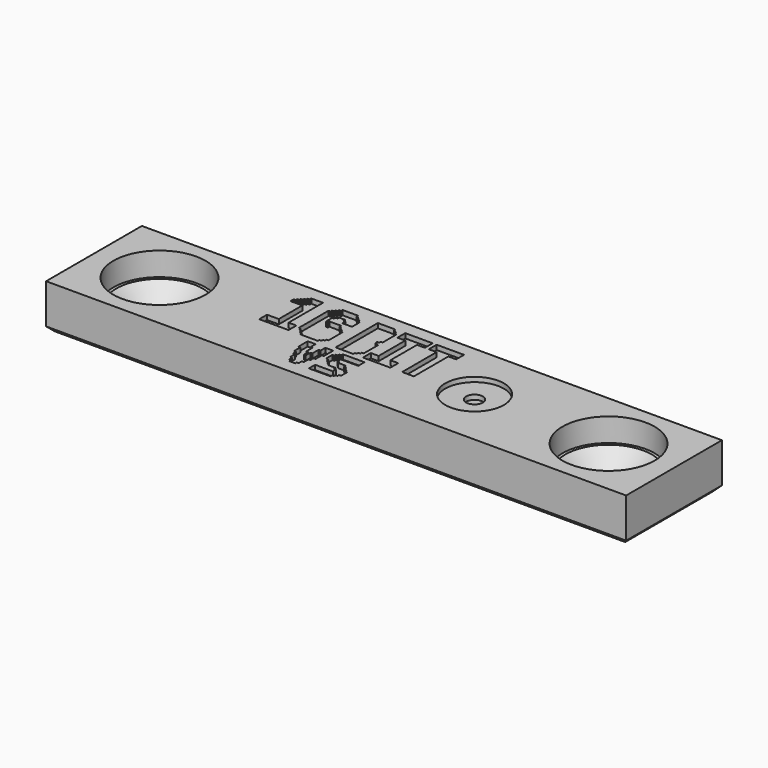
from build123d import *

# Parameters (mm, degrees)
SKETCH040_W        = 62
SKETCH040_H        = 12.8
PAD015_DEPTH       = 4.75
SKETCH041_R        = 4.925
SKETCH041_R_2      = 2.6
POCKET040_DEPTH    = 2.5
POCKET040_FACE13_R = 2.6
POCKET041_DEPTH    = 5
POCKET041_FACE13_R = 2.6
POCKET042_DEPTH    = 5
CHAMFER010_SIZE    = 2
CHAMFER011_SIZE    = 0.5
SKETCH042_R        = 3.136
SKETCH042_R_2      = 0.893
POCKET043_DEPTH    = 2.5
POCKET043_FACE22_R = 0.893
POCKET044_DEPTH    = 1
POCKET045_DEPTH    = 2.5


with BuildPart() as part:
    # Sketch040 → Pad015 (new body)
    with BuildSketch(Plane.XY):
        with Locations((131, -31.4)):
            Rectangle(SKETCH040_W, SKETCH040_H)
    extrude(amount=PAD015_DEPTH)

    # Sketch041 (on Face6 of Pad015) → Pocket040 (cut)
    with BuildSketch(Plane.XY.offset(4.75)):
        with Locations((107, -31.4)):
            Circle(SKETCH041_R)
        with Locations((107, -31.4)):
            Circle(SKETCH041_R_2, mode=Mode.SUBTRACT)
        with Locations((155, -31.4)):
            Circle(SKETCH041_R)
        with Locations((155, -31.4)):
            Circle(SKETCH041_R_2, mode=Mode.SUBTRACT)
    extrude(amount=-POCKET040_DEPTH, mode=Mode.SUBTRACT)

    # Pocket040 Face13 → Pocket041 (cut)
    with BuildSketch(Plane(origin=(107, -31.4, 4.75), x_dir=(0, 1, 0), z_dir=(0, 0, 1))):
        Circle(POCKET040_FACE13_R)
    extrude(amount=-POCKET041_DEPTH, mode=Mode.SUBTRACT)

    # Pocket041 Face13 → Pocket042 (cut)
    with BuildSketch(Plane(origin=(155, -31.4, 4.75), x_dir=(0, 1, 0), z_dir=(0, 0, 1))):
        Circle(POCKET041_FACE13_R)
    extrude(amount=-POCKET042_DEPTH, mode=Mode.SUBTRACT)

    # Chamfer010
    chamfer010_edges = [part.edges().sort_by_distance(p)[0] for p in [
        (104.4, -31.4, 2.25),
        (152.4, -31.4, 2.25),
    ]]
    chamfer(chamfer010_edges, length=CHAMFER010_SIZE)

    # Chamfer011
    chamfer011_edges = [part.edges().sort_by_distance(p)[0] for p in [
        (100, -31.4, 0),
        (131, -37.8, 0),
        (131, -25, 0),
        (162, -31.4, 0),
    ]]
    chamfer(chamfer011_edges, length=CHAMFER011_SIZE)

    # Sketch042 → Pocket043 (cut)
    with BuildSketch(Plane(origin=(140.68, -31.4, 6.75), x_dir=(1, 0, 0), z_dir=(0, 0, 1))):
        Circle(SKETCH042_R)
        Circle(SKETCH042_R_2, mode=Mode.SUBTRACT)
    extrude(amount=-POCKET043_DEPTH, mode=Mode.SUBTRACT)

    # Pocket043 Face22 → Pocket044 (cut)
    with BuildSketch(Plane(origin=(140.68, -31.4, 4.75), x_dir=(0, 1, 0), z_dir=(0, 0, 1))):
        Circle(POCKET043_FACE22_R)
    extrude(amount=-POCKET044_DEPTH, mode=Mode.SUBTRACT)

    # Sketch043 → Pocket045 (cut)
    with BuildSketch(Plane(origin=(118.18, -26.4, 6.75), x_dir=(1, 0, 0), z_dir=(0, 0, 1))):
        with BuildLine():
            add(Edge.make_bspline(
                [(1.569756, -5.651122), (0, -5.651122)],
                knots=[0, 0, 1.569756, 1.569756], degree=1))
            add(Edge.make_bspline(
                [(0, -5.651122), (0, -5.12787)],
                knots=[0, 0, 0.523252, 0.523252], degree=1))
            add(Edge.make_bspline(
                [(0, -5.12787), (0, -4.604618)],
                knots=[0, 0, 0.523252, 0.523252], degree=1))
            add(Edge.make_bspline(
                [(0, -4.604618), (0.627902, -4.604618)],
                knots=[0, 0, 0.627902, 0.627902], degree=1))
            add(Edge.make_bspline(
                [(0.627902, -4.604618), (1.255805, -4.604618)],
                knots=[0, 0, 0.627902, 0.627902], degree=1))
            add(Edge.make_bspline(
                [(1.255805, -4.604618), (1.255805, -3.034862)],
                knots=[0, 0, 1.569756, 1.569756], degree=1))
            add(Edge.make_bspline(
                [(1.255805, -3.034862), (1.255805, -1.465106)],
                knots=[0, 0, 1.569756, 1.569756], degree=1))
            add(Edge.make_bspline(
                [(1.255805, -1.465106), (0.627902, -1.465106)],
                knots=[0, 0, 0.627902, 0.627902], degree=1))
            add(Edge.make_bspline(
                [(0.627902, -1.465106), (0, -1.465106)],
                knots=[0, 0, 0.627902, 0.627902], degree=1))
            add(Edge.make_bspline(
                [(0, -1.465106), (0, -1.255805)],
                knots=[0, 0, 0.209301, 0.209301], degree=1))
            add(Edge.make_bspline(
                [(0, -1.255805), (0, -1.046504)],
                knots=[0, 0, 0.209301, 0.209301], degree=1))
            add(Edge.make_bspline(
                [(0, -1.046504), (0.10465, -1.046504)],
                knots=[0, 0, 0.10465, 0.10465], degree=1))
            add(Edge.make_bspline(
                [(0.10465, -1.046504), (0.209301, -1.046504)],
                knots=[0, 0, 0.10465, 0.10465], degree=1))
            add(Edge.make_bspline(
                [(0.209301, -1.046504), (0.209301, -0.941854)],
                knots=[0, 0, 0.10465, 0.10465], degree=1))
            add(Edge.make_bspline(
                [(0.209301, -0.941854), (0.209301, -0.837203)],
                knots=[0, 0, 0.10465, 0.10465], degree=1))
            add(Edge.make_bspline(
                [(0.209301, -0.837203), (0.313951, -0.837203)],
                knots=[0, 0, 0.10465, 0.10465], degree=1))
            add(Edge.make_bspline(
                [(0.313951, -0.837203), (0.418602, -0.837203)],
                knots=[0, 0, 0.10465, 0.10465], degree=1))
            add(Edge.make_bspline(
                [(0.418602, -0.837203), (0.418602, -0.732553)],
                knots=[0, 0, 0.10465, 0.10465], degree=1))
            add(Edge.make_bspline(
                [(0.418602, -0.732553), (0.418602, -0.627902)],
                knots=[0, 0, 0.10465, 0.10465], degree=1))
            add(Edge.make_bspline(
                [(0.418602, -0.627902), (0.523252, -0.627902)],
                knots=[0, 0, 0.10465, 0.10465], degree=1))
            add(Edge.make_bspline(
                [(0.523252, -0.627902), (0.627902, -0.627902)],
                knots=[0, 0, 0.10465, 0.10465], degree=1))
            add(Edge.make_bspline(
                [(0.627902, -0.627902), (0.627902, -0.523252)],
                knots=[0, 0, 0.10465, 0.10465], degree=1))
            add(Edge.make_bspline(
                [(0.627902, -0.523252), (0.627902, -0.418602)],
                knots=[0, 0, 0.10465, 0.10465], degree=1))
            add(Edge.make_bspline(
                [(0.627902, -0.418602), (0.732553, -0.418602)],
                knots=[0, 0, 0.10465, 0.10465], degree=1))
            add(Edge.make_bspline(
                [(0.732553, -0.418602), (0.837203, -0.418602)],
                knots=[0, 0, 0.10465, 0.10465], degree=1))
            add(Edge.make_bspline(
                [(0.837203, -0.418602), (0.837203, -0.313951)],
                knots=[0, 0, 0.10465, 0.10465], degree=1))
            add(Edge.make_bspline(
                [(0.837203, -0.313951), (0.837203, -0.209301)],
                knots=[0, 0, 0.10465, 0.10465], degree=1))
            add(Edge.make_bspline(
                [(0.837203, -0.209301), (0.941854, -0.209301)],
                knots=[0, 0, 0.10465, 0.10465], degree=1))
            add(Edge.make_bspline(
                [(0.941854, -0.209301), (1.046504, -0.209301)],
                knots=[0, 0, 0.10465, 0.10465], degree=1))
            add(Edge.make_bspline(
                [(1.046504, -0.209301), (1.046504, -0.10465)],
                knots=[0, 0, 0.10465, 0.10465], degree=1))
            add(Edge.make_bspline(
                [(1.046504, -0.10465), (1.046504, 0)],
                knots=[0, 0, 0.10465, 0.10465], degree=1))
            add(Edge.make_bspline(
                [(1.046504, 0), (1.674406, 0)],
                knots=[0, 0, 0.627902, 0.627902], degree=1))
            add(Edge.make_bspline(
                [(1.674406, 0), (2.302309, 0)],
                knots=[0, 0, 0.627902, 0.627902], degree=1))
            add(Edge.make_bspline(
                [(2.302309, 0), (2.302309, -2.302309)],
                knots=[0, 0, 2.302309, 2.302309], degree=1))
            add(Edge.make_bspline(
                [(2.302309, -2.302309), (2.302309, -4.604618)],
                knots=[0, 0, 2.302309, 2.302309], degree=1))
            add(Edge.make_bspline(
                [(2.302309, -4.604618), (2.720911, -4.604618)],
                knots=[0, 0, 0.418602, 0.418602], degree=1))
            add(Edge.make_bspline(
                [(2.720911, -4.604618), (3.139512, -4.604618)],
                knots=[0, 0, 0.418602, 0.418602], degree=1))
            add(Edge.make_bspline(
                [(3.139512, -4.604618), (3.139512, -5.12787)],
                knots=[0, 0, 0.523252, 0.523252], degree=1))
            add(Edge.make_bspline(
                [(3.139512, -5.12787), (3.139512, -5.651122)],
                knots=[0, 0, 0.523252, 0.523252], degree=1))
            add(Edge.make_bspline(
                [(3.139512, -5.651122), (1.569756, -5.651122)],
                knots=[0, 0, 1.569756, 1.569756], degree=1))
        make_face()
        with BuildLine():
            add(Edge.make_bspline(
                [(5.337171, -5.651122), (4.395317, -5.651122)],
                knots=[0, 0, 0.941854, 0.941854], degree=1))
            add(Edge.make_bspline(
                [(4.395317, -5.651122), (4.395317, -5.546471)],
                knots=[0, 0, 0.10465, 0.10465], degree=1))
            add(Edge.make_bspline(
                [(4.395317, -5.546471), (4.395317, -5.441821)],
                knots=[0, 0, 0.10465, 0.10465], degree=1))
            add(Edge.make_bspline(
                [(4.395317, -5.441821), (4.290667, -5.441821)],
                knots=[0, 0, 0.10465, 0.10465], degree=1))
            add(Edge.make_bspline(
                [(4.290667, -5.441821), (4.186016, -5.441821)],
                knots=[0, 0, 0.10465, 0.10465], degree=1))
            add(Edge.make_bspline(
                [(4.186016, -5.441821), (4.186016, -5.337171)],
                knots=[0, 0, 0.10465, 0.10465], degree=1))
            add(Edge.make_bspline(
                [(4.186016, -5.337171), (4.186016, -5.23252)],
                knots=[0, 0, 0.10465, 0.10465], degree=1))
            add(Edge.make_bspline(
                [(4.186016, -5.23252), (4.081366, -5.23252)],
                knots=[0, 0, 0.10465, 0.10465], degree=1))
            add(Edge.make_bspline(
                [(4.081366, -5.23252), (3.976715, -5.23252)],
                knots=[0, 0, 0.10465, 0.10465], degree=1))
            add(Edge.make_bspline(
                [(3.976715, -5.23252), (3.976715, -5.12787)],
                knots=[0, 0, 0.10465, 0.10465], degree=1))
            add(Edge.make_bspline(
                [(3.976715, -5.12787), (3.976715, -5.023219)],
                knots=[0, 0, 0.10465, 0.10465], degree=1))
            add(Edge.make_bspline(
                [(3.976715, -5.023219), (3.872065, -5.023219)],
                knots=[0, 0, 0.10465, 0.10465], degree=1))
            add(Edge.make_bspline(
                [(3.872065, -5.023219), (3.767415, -5.023219)],
                knots=[0, 0, 0.10465, 0.10465], degree=1))
            add(Edge.make_bspline(
                [(3.767415, -5.023219), (3.767415, -4.918569)],
                knots=[0, 0, 0.10465, 0.10465], degree=1))
            add(Edge.make_bspline(
                [(3.767415, -4.918569), (3.767415, -4.813918)],
                knots=[0, 0, 0.10465, 0.10465], degree=1))
            add(Edge.make_bspline(
                [(3.767415, -4.813918), (3.662764, -4.813918)],
                knots=[0, 0, 0.10465, 0.10465], degree=1))
            add(Edge.make_bspline(
                [(3.662764, -4.813918), (3.558114, -4.813918)],
                knots=[0, 0, 0.10465, 0.10465], degree=1))
            add(Edge.make_bspline(
                [(3.558114, -4.813918), (3.558114, -2.825561)],
                knots=[0, 0, 1.988358, 1.988358], degree=1))
            add(Edge.make_bspline(
                [(3.558114, -2.825561), (3.558114, -0.837203)],
                knots=[0, 0, 1.988358, 1.988358], degree=1))
            add(Edge.make_bspline(
                [(3.558114, -0.837203), (3.662764, -0.837203)],
                knots=[0, 0, 0.10465, 0.10465], degree=1))
            add(Edge.make_bspline(
                [(3.662764, -0.837203), (3.767415, -0.837203)],
                knots=[0, 0, 0.10465, 0.10465], degree=1))
            add(Edge.make_bspline(
                [(3.767415, -0.837203), (3.767415, -0.732553)],
                knots=[0, 0, 0.10465, 0.10465], degree=1))
            add(Edge.make_bspline(
                [(3.767415, -0.732553), (3.767415, -0.627902)],
                knots=[0, 0, 0.10465, 0.10465], degree=1))
            add(Edge.make_bspline(
                [(3.767415, -0.627902), (3.872065, -0.627902)],
                knots=[0, 0, 0.10465, 0.10465], degree=1))
            add(Edge.make_bspline(
                [(3.872065, -0.627902), (3.976715, -0.627902)],
                knots=[0, 0, 0.10465, 0.10465], degree=1))
            add(Edge.make_bspline(
                [(3.976715, -0.627902), (3.976715, -0.523252)],
                knots=[0, 0, 0.10465, 0.10465], degree=1))
            add(Edge.make_bspline(
                [(3.976715, -0.523252), (3.976715, -0.418602)],
                knots=[0, 0, 0.10465, 0.10465], degree=1))
            add(Edge.make_bspline(
                [(3.976715, -0.418602), (4.081366, -0.418602)],
                knots=[0, 0, 0.10465, 0.10465], degree=1))
            add(Edge.make_bspline(
                [(4.081366, -0.418602), (4.186016, -0.418602)],
                knots=[0, 0, 0.10465, 0.10465], degree=1))
            add(Edge.make_bspline(
                [(4.186016, -0.418602), (4.186016, -0.313951)],
                knots=[0, 0, 0.10465, 0.10465], degree=1))
            add(Edge.make_bspline(
                [(4.186016, -0.313951), (4.186016, -0.209301)],
                knots=[0, 0, 0.10465, 0.10465], degree=1))
            add(Edge.make_bspline(
                [(4.186016, -0.209301), (4.290667, -0.209301)],
                knots=[0, 0, 0.10465, 0.10465], degree=1))
            add(Edge.make_bspline(
                [(4.290667, -0.209301), (4.395317, -0.209301)],
                knots=[0, 0, 0.10465, 0.10465], degree=1))
            add(Edge.make_bspline(
                [(4.395317, -0.209301), (4.395317, -0.10465)],
                knots=[0, 0, 0.10465, 0.10465], degree=1))
            add(Edge.make_bspline(
                [(4.395317, -0.10465), (4.395317, 0)],
                knots=[0, 0, 0.10465, 0.10465], degree=1))
            add(Edge.make_bspline(
                [(4.395317, 0), (5.23252, 0)],
                knots=[0, 0, 0.837203, 0.837203], degree=1))
            add(Edge.make_bspline(
                [(5.23252, 0), (6.069723, 0)],
                knots=[0, 0, 0.837203, 0.837203], degree=1))
            add(Edge.make_bspline(
                [(6.069723, 0), (6.069723, -0.10465)],
                knots=[0, 0, 0.10465, 0.10465], degree=1))
            add(Edge.make_bspline(
                [(6.069723, -0.10465), (6.069723, -0.209301)],
                knots=[0, 0, 0.10465, 0.10465], degree=1))
            add(Edge.make_bspline(
                [(6.069723, -0.209301), (6.174374, -0.209301)],
                knots=[0, 0, 0.10465, 0.10465], degree=1))
            add(Edge.make_bspline(
                [(6.174374, -0.209301), (6.279024, -0.209301)],
                knots=[0, 0, 0.10465, 0.10465], degree=1))
            add(Edge.make_bspline(
                [(6.279024, -0.209301), (6.279024, -0.313951)],
                knots=[0, 0, 0.10465, 0.10465], degree=1))
            add(Edge.make_bspline(
                [(6.279024, -0.313951), (6.279024, -0.418602)],
                knots=[0, 0, 0.10465, 0.10465], degree=1))
            add(Edge.make_bspline(
                [(6.279024, -0.418602), (6.383674, -0.418602)],
                knots=[0, 0, 0.10465, 0.10465], degree=1))
            add(Edge.make_bspline(
                [(6.383674, -0.418602), (6.488325, -0.418602)],
                knots=[0, 0, 0.10465, 0.10465], degree=1))
            add(Edge.make_bspline(
                [(6.488325, -0.418602), (6.488325, -0.523252)],
                knots=[0, 0, 0.10465, 0.10465], degree=1))
            add(Edge.make_bspline(
                [(6.488325, -0.523252), (6.488325, -0.627902)],
                knots=[0, 0, 0.10465, 0.10465], degree=1))
            add(Edge.make_bspline(
                [(6.488325, -0.627902), (6.592975, -0.627902)],
                knots=[0, 0, 0.10465, 0.10465], degree=1))
            add(Edge.make_bspline(
                [(6.592975, -0.627902), (6.697626, -0.627902)],
                knots=[0, 0, 0.10465, 0.10465], degree=1))
            add(Edge.make_bspline(
                [(6.697626, -0.627902), (6.697626, -0.732553)],
                knots=[0, 0, 0.10465, 0.10465], degree=1))
            add(Edge.make_bspline(
                [(6.697626, -0.732553), (6.697626, -0.837203)],
                knots=[0, 0, 0.10465, 0.10465], degree=1))
            add(Edge.make_bspline(
                [(6.697626, -0.837203), (6.802276, -0.837203)],
                knots=[0, 0, 0.10465, 0.10465], degree=1))
            add(Edge.make_bspline(
                [(6.802276, -0.837203), (6.906926, -0.837203)],
                knots=[0, 0, 0.10465, 0.10465], degree=1))
            add(Edge.make_bspline(
                [(6.906926, -0.837203), (6.906926, -1.360455)],
                knots=[0, 0, 0.523252, 0.523252], degree=1))
            add(Edge.make_bspline(
                [(6.906926, -1.360455), (6.906926, -1.883707)],
                knots=[0, 0, 0.523252, 0.523252], degree=1))
            add(Edge.make_bspline(
                [(6.906926, -1.883707), (6.383674, -1.883707)],
                knots=[0, 0, 0.523252, 0.523252], degree=1))
            add(Edge.make_bspline(
                [(6.383674, -1.883707), (5.860423, -1.883707)],
                knots=[0, 0, 0.523252, 0.523252], degree=1))
            add(Edge.make_bspline(
                [(5.860423, -1.883707), (5.860423, -1.674406)],
                knots=[0, 0, 0.209301, 0.209301], degree=1))
            add(Edge.make_bspline(
                [(5.860423, -1.674406), (5.860423, -1.465106)],
                knots=[0, 0, 0.209301, 0.209301], degree=1))
            add(Edge.make_bspline(
                [(5.860423, -1.465106), (5.755772, -1.465106)],
                knots=[0, 0, 0.10465, 0.10465], degree=1))
            add(Edge.make_bspline(
                [(5.755772, -1.465106), (5.651122, -1.465106)],
                knots=[0, 0, 0.10465, 0.10465], degree=1))
            add(Edge.make_bspline(
                [(5.651122, -1.465106), (5.651122, -1.360455)],
                knots=[0, 0, 0.10465, 0.10465], degree=1))
            add(Edge.make_bspline(
                [(5.651122, -1.360455), (5.651122, -1.255805)],
                knots=[0, 0, 0.10465, 0.10465], degree=1))
            add(Edge.make_bspline(
                [(5.651122, -1.255805), (5.337171, -1.255805)],
                knots=[0, 0, 0.313951, 0.313951], degree=1))
            add(Edge.make_bspline(
                [(5.337171, -1.255805), (5.023219, -1.255805)],
                knots=[0, 0, 0.313951, 0.313951], degree=1))
            add(Edge.make_bspline(
                [(5.023219, -1.255805), (5.023219, -1.360455)],
                knots=[0, 0, 0.10465, 0.10465], degree=1))
            add(Edge.make_bspline(
                [(5.023219, -1.360455), (5.023219, -1.465106)],
                knots=[0, 0, 0.10465, 0.10465], degree=1))
            add(Edge.make_bspline(
                [(5.023219, -1.465106), (4.918569, -1.465106)],
                knots=[0, 0, 0.10465, 0.10465], degree=1))
            add(Edge.make_bspline(
                [(4.918569, -1.465106), (4.813918, -1.465106)],
                knots=[0, 0, 0.10465, 0.10465], degree=1))
            add(Edge.make_bspline(
                [(4.813918, -1.465106), (4.813918, -1.569756)],
                knots=[0, 0, 0.10465, 0.10465], degree=1))
            add(Edge.make_bspline(
                [(4.813918, -1.569756), (4.813918, -1.674406)],
                knots=[0, 0, 0.10465, 0.10465], degree=1))
            add(Edge.make_bspline(
                [(4.813918, -1.674406), (4.709268, -1.674406)],
                knots=[0, 0, 0.10465, 0.10465], degree=1))
            add(Edge.make_bspline(
                [(4.709268, -1.674406), (4.604618, -1.674406)],
                knots=[0, 0, 0.10465, 0.10465], degree=1))
            add(Edge.make_bspline(
                [(4.604618, -1.674406), (4.604618, -2.093008)],
                knots=[0, 0, 0.418602, 0.418602], degree=1))
            add(Edge.make_bspline(
                [(4.604618, -2.093008), (4.604618, -2.51161)],
                knots=[0, 0, 0.418602, 0.418602], degree=1))
            add(Edge.make_bspline(
                [(4.604618, -2.51161), (4.709268, -2.51161)],
                knots=[0, 0, 0.10465, 0.10465], degree=1))
            add(Edge.make_bspline(
                [(4.709268, -2.51161), (4.813918, -2.51161)],
                knots=[0, 0, 0.10465, 0.10465], degree=1))
            add(Edge.make_bspline(
                [(4.813918, -2.51161), (4.813918, -2.406959)],
                knots=[0, 0, 0.10465, 0.10465], degree=1))
            add(Edge.make_bspline(
                [(4.813918, -2.406959), (4.813918, -2.302309)],
                knots=[0, 0, 0.10465, 0.10465], degree=1))
            add(Edge.make_bspline(
                [(4.813918, -2.302309), (5.441821, -2.302309)],
                knots=[0, 0, 0.627902, 0.627902], degree=1))
            add(Edge.make_bspline(
                [(5.441821, -2.302309), (6.069723, -2.302309)],
                knots=[0, 0, 0.627902, 0.627902], degree=1))
            add(Edge.make_bspline(
                [(6.069723, -2.302309), (6.069723, -2.406959)],
                knots=[0, 0, 0.10465, 0.10465], degree=1))
            add(Edge.make_bspline(
                [(6.069723, -2.406959), (6.069723, -2.51161)],
                knots=[0, 0, 0.10465, 0.10465], degree=1))
            add(Edge.make_bspline(
                [(6.069723, -2.51161), (6.174374, -2.51161)],
                knots=[0, 0, 0.10465, 0.10465], degree=1))
            add(Edge.make_bspline(
                [(6.174374, -2.51161), (6.279024, -2.51161)],
                knots=[0, 0, 0.10465, 0.10465], degree=1))
            add(Edge.make_bspline(
                [(6.279024, -2.51161), (6.279024, -2.61626)],
                knots=[0, 0, 0.10465, 0.10465], degree=1))
            add(Edge.make_bspline(
                [(6.279024, -2.61626), (6.279024, -2.720911)],
                knots=[0, 0, 0.10465, 0.10465], degree=1))
            add(Edge.make_bspline(
                [(6.279024, -2.720911), (6.383674, -2.720911)],
                knots=[0, 0, 0.10465, 0.10465], degree=1))
            add(Edge.make_bspline(
                [(6.383674, -2.720911), (6.488325, -2.720911)],
                knots=[0, 0, 0.10465, 0.10465], degree=1))
            add(Edge.make_bspline(
                [(6.488325, -2.720911), (6.488325, -2.825561)],
                knots=[0, 0, 0.10465, 0.10465], degree=1))
            add(Edge.make_bspline(
                [(6.488325, -2.825561), (6.488325, -2.930211)],
                knots=[0, 0, 0.10465, 0.10465], degree=1))
            add(Edge.make_bspline(
                [(6.488325, -2.930211), (6.592975, -2.930211)],
                knots=[0, 0, 0.10465, 0.10465], degree=1))
            add(Edge.make_bspline(
                [(6.592975, -2.930211), (6.697626, -2.930211)],
                knots=[0, 0, 0.10465, 0.10465], degree=1))
            add(Edge.make_bspline(
                [(6.697626, -2.930211), (6.697626, -3.034862)],
                knots=[0, 0, 0.10465, 0.10465], degree=1))
            add(Edge.make_bspline(
                [(6.697626, -3.034862), (6.697626, -3.139512)],
                knots=[0, 0, 0.10465, 0.10465], degree=1))
            add(Edge.make_bspline(
                [(6.697626, -3.139512), (6.802276, -3.139512)],
                knots=[0, 0, 0.10465, 0.10465], degree=1))
            add(Edge.make_bspline(
                [(6.802276, -3.139512), (6.906926, -3.139512)],
                knots=[0, 0, 0.10465, 0.10465], degree=1))
            add(Edge.make_bspline(
                [(6.906926, -3.139512), (6.906926, -4.081366)],
                knots=[0, 0, 0.941854, 0.941854], degree=1))
            add(Edge.make_bspline(
                [(6.906926, -4.081366), (6.906926, -5.023219)],
                knots=[0, 0, 0.941854, 0.941854], degree=1))
            add(Edge.make_bspline(
                [(6.906926, -5.023219), (6.802276, -5.023219)],
                knots=[0, 0, 0.10465, 0.10465], degree=1))
            add(Edge.make_bspline(
                [(6.802276, -5.023219), (6.697626, -5.023219)],
                knots=[0, 0, 0.10465, 0.10465], degree=1))
            add(Edge.make_bspline(
                [(6.697626, -5.023219), (6.697626, -5.12787)],
                knots=[0, 0, 0.10465, 0.10465], degree=1))
            add(Edge.make_bspline(
                [(6.697626, -5.12787), (6.697626, -5.23252)],
                knots=[0, 0, 0.10465, 0.10465], degree=1))
            add(Edge.make_bspline(
                [(6.697626, -5.23252), (6.592975, -5.23252)],
                knots=[0, 0, 0.10465, 0.10465], degree=1))
            add(Edge.make_bspline(
                [(6.592975, -5.23252), (6.488325, -5.23252)],
                knots=[0, 0, 0.10465, 0.10465], degree=1))
            add(Edge.make_bspline(
                [(6.488325, -5.23252), (6.488325, -5.337171)],
                knots=[0, 0, 0.10465, 0.10465], degree=1))
            add(Edge.make_bspline(
                [(6.488325, -5.337171), (6.488325, -5.441821)],
                knots=[0, 0, 0.10465, 0.10465], degree=1))
            add(Edge.make_bspline(
                [(6.488325, -5.441821), (6.383674, -5.441821)],
                knots=[0, 0, 0.10465, 0.10465], degree=1))
            add(Edge.make_bspline(
                [(6.383674, -5.441821), (6.279024, -5.441821)],
                knots=[0, 0, 0.10465, 0.10465], degree=1))
            add(Edge.make_bspline(
                [(6.279024, -5.441821), (6.279024, -5.546471)],
                knots=[0, 0, 0.10465, 0.10465], degree=1))
            add(Edge.make_bspline(
                [(6.279024, -5.546471), (6.279024, -5.651122)],
                knots=[0, 0, 0.10465, 0.10465], degree=1))
            add(Edge.make_bspline(
                [(6.279024, -5.651122), (5.337171, -5.651122)],
                knots=[0, 0, 0.941854, 0.941854], degree=1))
        make_face()
        with BuildLine():
            add(Edge.make_bspline(
                [(9.104585, -5.651122), (8.162731, -5.651122)],
                knots=[0, 0, 0.941854, 0.941854], degree=1))
            add(Edge.make_bspline(
                [(8.162731, -5.651122), (8.162731, -2.825561)],
                knots=[0, 0, 2.825561, 2.825561], degree=1))
            add(Edge.make_bspline(
                [(8.162731, -2.825561), (8.162731, 0)],
                knots=[0, 0, 2.825561, 2.825561], degree=1))
            add(Edge.make_bspline(
                [(8.162731, 0), (9.104585, 0)],
                knots=[0, 0, 0.941854, 0.941854], degree=1))
            add(Edge.make_bspline(
                [(9.104585, 0), (10.046439, 0)],
                knots=[0, 0, 0.941854, 0.941854], degree=1))
            add(Edge.make_bspline(
                [(10.046439, 0), (10.046439, -0.10465)],
                knots=[0, 0, 0.10465, 0.10465], degree=1))
            add(Edge.make_bspline(
                [(10.046439, -0.10465), (10.046439, -0.209301)],
                knots=[0, 0, 0.10465, 0.10465], degree=1))
            add(Edge.make_bspline(
                [(10.046439, -0.209301), (10.151089, -0.209301)],
                knots=[0, 0, 0.10465, 0.10465], degree=1))
            add(Edge.make_bspline(
                [(10.151089, -0.209301), (10.255739, -0.209301)],
                knots=[0, 0, 0.10465, 0.10465], degree=1))
            add(Edge.make_bspline(
                [(10.255739, -0.209301), (10.255739, -0.313951)],
                knots=[0, 0, 0.10465, 0.10465], degree=1))
            add(Edge.make_bspline(
                [(10.255739, -0.313951), (10.255739, -0.418602)],
                knots=[0, 0, 0.10465, 0.10465], degree=1))
            add(Edge.make_bspline(
                [(10.255739, -0.418602), (10.36039, -0.418602)],
                knots=[0, 0, 0.104651, 0.104651], degree=1))
            add(Edge.make_bspline(
                [(10.36039, -0.418602), (10.46504, -0.418602)],
                knots=[0, 0, 0.10465, 0.10465], degree=1))
            add(Edge.make_bspline(
                [(10.46504, -0.418602), (10.46504, -0.523252)],
                knots=[0, 0, 0.10465, 0.10465], degree=1))
            add(Edge.make_bspline(
                [(10.46504, -0.523252), (10.46504, -0.627902)],
                knots=[0, 0, 0.10465, 0.10465], degree=1))
            add(Edge.make_bspline(
                [(10.46504, -0.627902), (10.569691, -0.627902)],
                knots=[0, 0, 0.104651, 0.104651], degree=1))
            add(Edge.make_bspline(
                [(10.569691, -0.627902), (10.674341, -0.627902)],
                knots=[0, 0, 0.10465, 0.10465], degree=1))
            add(Edge.make_bspline(
                [(10.674341, -0.627902), (10.674341, -1.569756)],
                knots=[0, 0, 0.941854, 0.941854], degree=1))
            add(Edge.make_bspline(
                [(10.674341, -1.569756), (10.674341, -2.51161)],
                knots=[0, 0, 0.941854, 0.941854], degree=1))
            add(Edge.make_bspline(
                [(10.674341, -2.51161), (10.569691, -2.51161)],
                knots=[0, 0, 0.10465, 0.10465], degree=1))
            add(Edge.make_bspline(
                [(10.569691, -2.51161), (10.46504, -2.51161)],
                knots=[0, 0, 0.104651, 0.104651], degree=1))
            add(Edge.make_bspline(
                [(10.46504, -2.51161), (10.46504, -2.61626)],
                knots=[0, 0, 0.10465, 0.10465], degree=1))
            add(Edge.make_bspline(
                [(10.46504, -2.61626), (10.46504, -2.720911)],
                knots=[0, 0, 0.10465, 0.10465], degree=1))
            add(Edge.make_bspline(
                [(10.46504, -2.720911), (10.36039, -2.720911)],
                knots=[0, 0, 0.10465, 0.10465], degree=1))
            add(Edge.make_bspline(
                [(10.36039, -2.720911), (10.255739, -2.720911)],
                knots=[0, 0, 0.104651, 0.104651], degree=1))
            add(Edge.make_bspline(
                [(10.255739, -2.720911), (10.255739, -2.825561)],
                knots=[0, 0, 0.10465, 0.10465], degree=1))
            add(Edge.make_bspline(
                [(10.255739, -2.825561), (10.255739, -2.930211)],
                knots=[0, 0, 0.10465, 0.10465], degree=1))
            add(Edge.make_bspline(
                [(10.255739, -2.930211), (10.36039, -2.930211)],
                knots=[0, 0, 0.104651, 0.104651], degree=1))
            add(Edge.make_bspline(
                [(10.36039, -2.930211), (10.46504, -2.930211)],
                knots=[0, 0, 0.10465, 0.10465], degree=1))
            add(Edge.make_bspline(
                [(10.46504, -2.930211), (10.46504, -3.034862)],
                knots=[0, 0, 0.10465, 0.10465], degree=1))
            add(Edge.make_bspline(
                [(10.46504, -3.034862), (10.46504, -3.139512)],
                knots=[0, 0, 0.10465, 0.10465], degree=1))
            add(Edge.make_bspline(
                [(10.46504, -3.139512), (10.569691, -3.139512)],
                knots=[0, 0, 0.104651, 0.104651], degree=1))
            add(Edge.make_bspline(
                [(10.569691, -3.139512), (10.674341, -3.139512)],
                knots=[0, 0, 0.10465, 0.10465], degree=1))
            add(Edge.make_bspline(
                [(10.674341, -3.139512), (10.674341, -4.081366)],
                knots=[0, 0, 0.941854, 0.941854], degree=1))
            add(Edge.make_bspline(
                [(10.674341, -4.081366), (10.674341, -5.023219)],
                knots=[0, 0, 0.941854, 0.941854], degree=1))
            add(Edge.make_bspline(
                [(10.674341, -5.023219), (10.569691, -5.023219)],
                knots=[0, 0, 0.10465, 0.10465], degree=1))
            add(Edge.make_bspline(
                [(10.569691, -5.023219), (10.46504, -5.023219)],
                knots=[0, 0, 0.104651, 0.104651], degree=1))
            add(Edge.make_bspline(
                [(10.46504, -5.023219), (10.46504, -5.12787)],
                knots=[0, 0, 0.10465, 0.10465], degree=1))
            add(Edge.make_bspline(
                [(10.46504, -5.12787), (10.46504, -5.23252)],
                knots=[0, 0, 0.10465, 0.10465], degree=1))
            add(Edge.make_bspline(
                [(10.46504, -5.23252), (10.36039, -5.23252)],
                knots=[0, 0, 0.10465, 0.10465], degree=1))
            add(Edge.make_bspline(
                [(10.36039, -5.23252), (10.255739, -5.23252)],
                knots=[0, 0, 0.104651, 0.104651], degree=1))
            add(Edge.make_bspline(
                [(10.255739, -5.23252), (10.255739, -5.337171)],
                knots=[0, 0, 0.10465, 0.10465], degree=1))
            add(Edge.make_bspline(
                [(10.255739, -5.337171), (10.255739, -5.441821)],
                knots=[0, 0, 0.10465, 0.10465], degree=1))
            add(Edge.make_bspline(
                [(10.255739, -5.441821), (10.151089, -5.441821)],
                knots=[0, 0, 0.10465, 0.10465], degree=1))
            add(Edge.make_bspline(
                [(10.151089, -5.441821), (10.046439, -5.441821)],
                knots=[0, 0, 0.10465, 0.10465], degree=1))
            add(Edge.make_bspline(
                [(10.046439, -5.441821), (10.046439, -5.546471)],
                knots=[0, 0, 0.10465, 0.10465], degree=1))
            add(Edge.make_bspline(
                [(10.046439, -5.546471), (10.046439, -5.651122)],
                knots=[0, 0, 0.10465, 0.10465], degree=1))
            add(Edge.make_bspline(
                [(10.046439, -5.651122), (9.104585, -5.651122)],
                knots=[0, 0, 0.941854, 0.941854], degree=1))
        make_face()
        with BuildLine():
            add(Edge.make_bspline(
                [(12.558048, -5.651122), (11.092943, -5.651122)],
                knots=[0, 0, 1.465105, 1.465105], degree=1))
            add(Edge.make_bspline(
                [(11.092943, -5.651122), (11.092943, -5.12787)],
                knots=[0, 0, 0.523252, 0.523252], degree=1))
            add(Edge.make_bspline(
                [(11.092943, -5.12787), (11.092943, -4.604618)],
                knots=[0, 0, 0.523252, 0.523252], degree=1))
            add(Edge.make_bspline(
                [(11.092943, -4.604618), (11.511544, -4.604618)],
                knots=[0, 0, 0.418601, 0.418601], degree=1))
            add(Edge.make_bspline(
                [(11.511544, -4.604618), (11.930146, -4.604618)],
                knots=[0, 0, 0.418602, 0.418602], degree=1))
            add(Edge.make_bspline(
                [(11.930146, -4.604618), (11.930146, -2.825561)],
                knots=[0, 0, 1.779057, 1.779057], degree=1))
            add(Edge.make_bspline(
                [(11.930146, -2.825561), (11.930146, -1.046504)],
                knots=[0, 0, 1.779057, 1.779057], degree=1))
            add(Edge.make_bspline(
                [(11.930146, -1.046504), (11.511544, -1.046504)],
                knots=[0, 0, 0.418602, 0.418602], degree=1))
            add(Edge.make_bspline(
                [(11.511544, -1.046504), (11.092943, -1.046504)],
                knots=[0, 0, 0.418601, 0.418601], degree=1))
            add(Edge.make_bspline(
                [(11.092943, -1.046504), (11.092943, -0.523252)],
                knots=[0, 0, 0.523252, 0.523252], degree=1))
            add(Edge.make_bspline(
                [(11.092943, -0.523252), (11.092943, 0)],
                knots=[0, 0, 0.523252, 0.523252], degree=1))
            add(Edge.make_bspline(
                [(11.092943, 0), (12.558048, 0)],
                knots=[0, 0, 1.465105, 1.465105], degree=1))
            add(Edge.make_bspline(
                [(12.558048, 0), (14.023154, 0)],
                knots=[0, 0, 1.465106, 1.465106], degree=1))
            add(Edge.make_bspline(
                [(14.023154, 0), (14.023154, -0.523252)],
                knots=[0, 0, 0.523252, 0.523252], degree=1))
            add(Edge.make_bspline(
                [(14.023154, -0.523252), (14.023154, -1.046504)],
                knots=[0, 0, 0.523252, 0.523252], degree=1))
            add(Edge.make_bspline(
                [(14.023154, -1.046504), (13.604552, -1.046504)],
                knots=[0, 0, 0.418602, 0.418602], degree=1))
            add(Edge.make_bspline(
                [(13.604552, -1.046504), (13.185951, -1.046504)],
                knots=[0, 0, 0.418601, 0.418601], degree=1))
            add(Edge.make_bspline(
                [(13.185951, -1.046504), (13.185951, -2.825561)],
                knots=[0, 0, 1.779057, 1.779057], degree=1))
            add(Edge.make_bspline(
                [(13.185951, -2.825561), (13.185951, -4.604618)],
                knots=[0, 0, 1.779057, 1.779057], degree=1))
            add(Edge.make_bspline(
                [(13.185951, -4.604618), (13.604552, -4.604618)],
                knots=[0, 0, 0.418601, 0.418601], degree=1))
            add(Edge.make_bspline(
                [(13.604552, -4.604618), (14.023154, -4.604618)],
                knots=[0, 0, 0.418602, 0.418602], degree=1))
            add(Edge.make_bspline(
                [(14.023154, -4.604618), (14.023154, -5.12787)],
                knots=[0, 0, 0.523252, 0.523252], degree=1))
            add(Edge.make_bspline(
                [(14.023154, -5.12787), (14.023154, -5.651122)],
                knots=[0, 0, 0.523252, 0.523252], degree=1))
            add(Edge.make_bspline(
                [(14.023154, -5.651122), (12.558048, -5.651122)],
                knots=[0, 0, 1.465106, 1.465106], degree=1))
        make_face()
        with BuildLine():
            add(Edge.make_bspline(
                [(15.906861, -5.651122), (15.278959, -5.651122)],
                knots=[0, 0, 0.627902, 0.627902], degree=1))
            add(Edge.make_bspline(
                [(15.278959, -5.651122), (15.278959, -3.348813)],
                knots=[0, 0, 2.302309, 2.302309], degree=1))
            add(Edge.make_bspline(
                [(15.278959, -3.348813), (15.278959, -1.046504)],
                knots=[0, 0, 2.302309, 2.302309], degree=1))
            add(Edge.make_bspline(
                [(15.278959, -1.046504), (14.860357, -1.046504)],
                knots=[0, 0, 0.418602, 0.418602], degree=1))
            add(Edge.make_bspline(
                [(14.860357, -1.046504), (14.441756, -1.046504)],
                knots=[0, 0, 0.418601, 0.418601], degree=1))
            add(Edge.make_bspline(
                [(14.441756, -1.046504), (14.441756, -0.523252)],
                knots=[0, 0, 0.523252, 0.523252], degree=1))
            add(Edge.make_bspline(
                [(14.441756, -0.523252), (14.441756, 0)],
                knots=[0, 0, 0.523252, 0.523252], degree=1))
            add(Edge.make_bspline(
                [(14.441756, 0), (15.906861, 0)],
                knots=[0, 0, 1.465105, 1.465105], degree=1))
            add(Edge.make_bspline(
                [(15.906861, 0), (17.371967, 0)],
                knots=[0, 0, 1.465106, 1.465106], degree=1))
            add(Edge.make_bspline(
                [(17.371967, 0), (17.371967, -0.523252)],
                knots=[0, 0, 0.523252, 0.523252], degree=1))
            add(Edge.make_bspline(
                [(17.371967, -0.523252), (17.371967, -1.046504)],
                knots=[0, 0, 0.523252, 0.523252], degree=1))
            add(Edge.make_bspline(
                [(17.371967, -1.046504), (16.953365, -1.046504)],
                knots=[0, 0, 0.418602, 0.418602], degree=1))
            add(Edge.make_bspline(
                [(16.953365, -1.046504), (16.534764, -1.046504)],
                knots=[0, 0, 0.418601, 0.418601], degree=1))
            add(Edge.make_bspline(
                [(16.534764, -1.046504), (16.534764, -3.348813)],
                knots=[0, 0, 2.302309, 2.302309], degree=1))
            add(Edge.make_bspline(
                [(16.534764, -3.348813), (16.534764, -5.651122)],
                knots=[0, 0, 2.302309, 2.302309], degree=1))
            add(Edge.make_bspline(
                [(16.534764, -5.651122), (15.906861, -5.651122)],
                knots=[0, 0, 0.627903, 0.627903], degree=1))
        make_face()
        with BuildLine():
            add(Edge.make_bspline(
                [(7.011577, -10), (6.697626, -10)],
                knots=[0, 0, 0.313951, 0.313951], degree=1))
            add(Edge.make_bspline(
                [(6.697626, -10), (6.697626, -9.89535)],
                knots=[0, 0, 0.10465, 0.10465], degree=1))
            add(Edge.make_bspline(
                [(6.697626, -9.89535), (6.697626, -9.790699)],
                knots=[0, 0, 0.10465, 0.10465], degree=1))
            add(Edge.make_bspline(
                [(6.697626, -9.790699), (6.592975, -9.790699)],
                knots=[0, 0, 0.10465, 0.10465], degree=1))
            add(Edge.make_bspline(
                [(6.592975, -9.790699), (6.488325, -9.790699)],
                knots=[0, 0, 0.10465, 0.10465], degree=1))
            add(Edge.make_bspline(
                [(6.488325, -9.790699), (6.488325, -9.581398)],
                knots=[0, 0, 0.209301, 0.209301], degree=1))
            add(Edge.make_bspline(
                [(6.488325, -9.581398), (6.488325, -9.372098)],
                knots=[0, 0, 0.209301, 0.209301], degree=1))
            add(Edge.make_bspline(
                [(6.488325, -9.372098), (6.383674, -9.372098)],
                knots=[0, 0, 0.10465, 0.10465], degree=1))
            add(Edge.make_bspline(
                [(6.383674, -9.372098), (6.279024, -9.372098)],
                knots=[0, 0, 0.10465, 0.10465], degree=1))
            add(Edge.make_bspline(
                [(6.279024, -9.372098), (6.279024, -9.058146)],
                knots=[0, 0, 0.313951, 0.313951], degree=1))
            add(Edge.make_bspline(
                [(6.279024, -9.058146), (6.279024, -8.744195)],
                knots=[0, 0, 0.313951, 0.313951], degree=1))
            add(Edge.make_bspline(
                [(6.279024, -8.744195), (6.174374, -8.744195)],
                knots=[0, 0, 0.10465, 0.10465], degree=1))
            add(Edge.make_bspline(
                [(6.174374, -8.744195), (6.069723, -8.744195)],
                knots=[0, 0, 0.10465, 0.10465], degree=1))
            add(Edge.make_bspline(
                [(6.069723, -8.744195), (6.069723, -8.534894)],
                knots=[0, 0, 0.209301, 0.209301], degree=1))
            add(Edge.make_bspline(
                [(6.069723, -8.534894), (6.069723, -8.325594)],
                knots=[0, 0, 0.209301, 0.209301], degree=1))
            add(Edge.make_bspline(
                [(6.069723, -8.325594), (5.965073, -8.325594)],
                knots=[0, 0, 0.10465, 0.10465], degree=1))
            add(Edge.make_bspline(
                [(5.965073, -8.325594), (5.860423, -8.325594)],
                knots=[0, 0, 0.10465, 0.10465], degree=1))
            add(Edge.make_bspline(
                [(5.860423, -8.325594), (5.860423, -7.906992)],
                knots=[0, 0, 0.418602, 0.418602], degree=1))
            add(Edge.make_bspline(
                [(5.860423, -7.906992), (5.860423, -7.48839)],
                knots=[0, 0, 0.418602, 0.418602], degree=1))
            add(Edge.make_bspline(
                [(5.860423, -7.48839), (5.755772, -7.48839)],
                knots=[0, 0, 0.10465, 0.10465], degree=1))
            add(Edge.make_bspline(
                [(5.755772, -7.48839), (5.651122, -7.48839)],
                knots=[0, 0, 0.10465, 0.10465], degree=1))
            add(Edge.make_bspline(
                [(5.651122, -7.48839), (5.651122, -6.860488)],
                knots=[0, 0, 0.627902, 0.627902], degree=1))
            add(Edge.make_bspline(
                [(5.651122, -6.860488), (5.651122, -6.232585)],
                knots=[0, 0, 0.627902, 0.627902], degree=1))
            add(Edge.make_bspline(
                [(5.651122, -6.232585), (6.069723, -6.232585)],
                knots=[0, 0, 0.418602, 0.418602], degree=1))
            add(Edge.make_bspline(
                [(6.069723, -6.232585), (6.488325, -6.232585)],
                knots=[0, 0, 0.418602, 0.418602], degree=1))
            add(Edge.make_bspline(
                [(6.488325, -6.232585), (6.488325, -6.546537)],
                knots=[0, 0, 0.313951, 0.313951], degree=1))
            add(Edge.make_bspline(
                [(6.488325, -6.546537), (6.488325, -6.860488)],
                knots=[0, 0, 0.313951, 0.313951], degree=1))
            add(Edge.make_bspline(
                [(6.488325, -6.860488), (6.592975, -6.860488)],
                knots=[0, 0, 0.10465, 0.10465], degree=1))
            add(Edge.make_bspline(
                [(6.592975, -6.860488), (6.697626, -6.860488)],
                knots=[0, 0, 0.10465, 0.10465], degree=1))
            add(Edge.make_bspline(
                [(6.697626, -6.860488), (6.697626, -7.27909)],
                knots=[0, 0, 0.418602, 0.418602], degree=1))
            add(Edge.make_bspline(
                [(6.697626, -7.27909), (6.697626, -7.697691)],
                knots=[0, 0, 0.418602, 0.418602], degree=1))
            add(Edge.make_bspline(
                [(6.697626, -7.697691), (6.802276, -7.697691)],
                knots=[0, 0, 0.10465, 0.10465], degree=1))
            add(Edge.make_bspline(
                [(6.802276, -7.697691), (6.906926, -7.697691)],
                knots=[0, 0, 0.10465, 0.10465], degree=1))
            add(Edge.make_bspline(
                [(6.906926, -7.697691), (6.906926, -8.011642)],
                knots=[0, 0, 0.313951, 0.313951], degree=1))
            add(Edge.make_bspline(
                [(6.906926, -8.011642), (6.906926, -8.325594)],
                knots=[0, 0, 0.313951, 0.313951], degree=1))
            add(Edge.make_bspline(
                [(6.906926, -8.325594), (7.011577, -8.325594)],
                knots=[0, 0, 0.10465, 0.10465], degree=1))
            add(Edge.make_bspline(
                [(7.011577, -8.325594), (7.116227, -8.325594)],
                knots=[0, 0, 0.10465, 0.10465], degree=1))
            add(Edge.make_bspline(
                [(7.116227, -8.325594), (7.116227, -8.011642)],
                knots=[0, 0, 0.313951, 0.313951], degree=1))
            add(Edge.make_bspline(
                [(7.116227, -8.011642), (7.116227, -7.697691)],
                knots=[0, 0, 0.313951, 0.313951], degree=1))
            add(Edge.make_bspline(
                [(7.116227, -7.697691), (7.220878, -7.697691)],
                knots=[0, 0, 0.10465, 0.10465], degree=1))
            add(Edge.make_bspline(
                [(7.220878, -7.697691), (7.325528, -7.697691)],
                knots=[0, 0, 0.10465, 0.10465], degree=1))
            add(Edge.make_bspline(
                [(7.325528, -7.697691), (7.325528, -7.27909)],
                knots=[0, 0, 0.418602, 0.418602], degree=1))
            add(Edge.make_bspline(
                [(7.325528, -7.27909), (7.325528, -6.860488)],
                knots=[0, 0, 0.418602, 0.418602], degree=1))
            add(Edge.make_bspline(
                [(7.325528, -6.860488), (7.430179, -6.860488)],
                knots=[0, 0, 0.10465, 0.10465], degree=1))
            add(Edge.make_bspline(
                [(7.430179, -6.860488), (7.534829, -6.860488)],
                knots=[0, 0, 0.10465, 0.10465], degree=1))
            add(Edge.make_bspline(
                [(7.534829, -6.860488), (7.534829, -6.546537)],
                knots=[0, 0, 0.313951, 0.313951], degree=1))
            add(Edge.make_bspline(
                [(7.534829, -6.546537), (7.534829, -6.232585)],
                knots=[0, 0, 0.313951, 0.313951], degree=1))
            add(Edge.make_bspline(
                [(7.534829, -6.232585), (7.953431, -6.232585)],
                knots=[0, 0, 0.418602, 0.418602], degree=1))
            add(Edge.make_bspline(
                [(7.953431, -6.232585), (8.372032, -6.232585)],
                knots=[0, 0, 0.418602, 0.418602], degree=1))
            add(Edge.make_bspline(
                [(8.372032, -6.232585), (8.372032, -6.860488)],
                knots=[0, 0, 0.627902, 0.627902], degree=1))
            add(Edge.make_bspline(
                [(8.372032, -6.860488), (8.372032, -7.48839)],
                knots=[0, 0, 0.627902, 0.627902], degree=1))
            add(Edge.make_bspline(
                [(8.372032, -7.48839), (8.267382, -7.48839)],
                knots=[0, 0, 0.10465, 0.10465], degree=1))
            add(Edge.make_bspline(
                [(8.267382, -7.48839), (8.162731, -7.48839)],
                knots=[0, 0, 0.10465, 0.10465], degree=1))
            add(Edge.make_bspline(
                [(8.162731, -7.48839), (8.162731, -7.906992)],
                knots=[0, 0, 0.418602, 0.418602], degree=1))
            add(Edge.make_bspline(
                [(8.162731, -7.906992), (8.162731, -8.325594)],
                knots=[0, 0, 0.418602, 0.418602], degree=1))
            add(Edge.make_bspline(
                [(8.162731, -8.325594), (8.058081, -8.325594)],
                knots=[0, 0, 0.10465, 0.10465], degree=1))
            add(Edge.make_bspline(
                [(8.058081, -8.325594), (7.953431, -8.325594)],
                knots=[0, 0, 0.10465, 0.10465], degree=1))
            add(Edge.make_bspline(
                [(7.953431, -8.325594), (7.953431, -8.534894)],
                knots=[0, 0, 0.209301, 0.209301], degree=1))
            add(Edge.make_bspline(
                [(7.953431, -8.534894), (7.953431, -8.744195)],
                knots=[0, 0, 0.209301, 0.209301], degree=1))
            add(Edge.make_bspline(
                [(7.953431, -8.744195), (7.84878, -8.744195)],
                knots=[0, 0, 0.10465, 0.10465], degree=1))
            add(Edge.make_bspline(
                [(7.84878, -8.744195), (7.74413, -8.744195)],
                knots=[0, 0, 0.10465, 0.10465], degree=1))
            add(Edge.make_bspline(
                [(7.74413, -8.744195), (7.74413, -9.058146)],
                knots=[0, 0, 0.313951, 0.313951], degree=1))
            add(Edge.make_bspline(
                [(7.74413, -9.058146), (7.74413, -9.372098)],
                knots=[0, 0, 0.313951, 0.313951], degree=1))
            add(Edge.make_bspline(
                [(7.74413, -9.372098), (7.639479, -9.372098)],
                knots=[0, 0, 0.10465, 0.10465], degree=1))
            add(Edge.make_bspline(
                [(7.639479, -9.372098), (7.534829, -9.372098)],
                knots=[0, 0, 0.10465, 0.10465], degree=1))
            add(Edge.make_bspline(
                [(7.534829, -9.372098), (7.534829, -9.581398)],
                knots=[0, 0, 0.209301, 0.209301], degree=1))
            add(Edge.make_bspline(
                [(7.534829, -9.581398), (7.534829, -9.790699)],
                knots=[0, 0, 0.209301, 0.209301], degree=1))
            add(Edge.make_bspline(
                [(7.534829, -9.790699), (7.430179, -9.790699)],
                knots=[0, 0, 0.10465, 0.10465], degree=1))
            add(Edge.make_bspline(
                [(7.430179, -9.790699), (7.325528, -9.790699)],
                knots=[0, 0, 0.10465, 0.10465], degree=1))
            add(Edge.make_bspline(
                [(7.325528, -9.790699), (7.325528, -9.89535)],
                knots=[0, 0, 0.10465, 0.10465], degree=1))
            add(Edge.make_bspline(
                [(7.325528, -9.89535), (7.325528, -10)],
                knots=[0, 0, 0.10465, 0.10465], degree=1))
            add(Edge.make_bspline(
                [(7.325528, -10), (7.011577, -10)],
                knots=[0, 0, 0.313951, 0.313951], degree=1))
        make_face()
        with BuildLine():
            add(Edge.make_bspline(
                [(9.941788, -10), (8.790634, -10)],
                knots=[0, 0, 1.151154, 1.151154], degree=1))
            add(Edge.make_bspline(
                [(8.790634, -10), (8.790634, -9.581398)],
                knots=[0, 0, 0.418602, 0.418602], degree=1))
            add(Edge.make_bspline(
                [(8.790634, -9.581398), (8.790634, -9.162797)],
                knots=[0, 0, 0.418602, 0.418602], degree=1))
            add(Edge.make_bspline(
                [(8.790634, -9.162797), (9.732487, -9.162797)],
                knots=[0, 0, 0.941854, 0.941854], degree=1))
            add(Edge.make_bspline(
                [(9.732487, -9.162797), (10.674341, -9.162797)],
                knots=[0, 0, 0.941854, 0.941854], degree=1))
            add(Edge.make_bspline(
                [(10.674341, -9.162797), (10.674341, -8.953496)],
                knots=[0, 0, 0.209301, 0.209301], degree=1))
            add(Edge.make_bspline(
                [(10.674341, -8.953496), (10.674341, -8.744195)],
                knots=[0, 0, 0.209301, 0.209301], degree=1))
            add(Edge.make_bspline(
                [(10.674341, -8.744195), (10.569691, -8.744195)],
                knots=[0, 0, 0.10465, 0.10465], degree=1))
            add(Edge.make_bspline(
                [(10.569691, -8.744195), (10.46504, -8.744195)],
                knots=[0, 0, 0.104651, 0.104651], degree=1))
            add(Edge.make_bspline(
                [(10.46504, -8.744195), (10.46504, -8.639545)],
                knots=[0, 0, 0.10465, 0.10465], degree=1))
            add(Edge.make_bspline(
                [(10.46504, -8.639545), (10.46504, -8.534894)],
                knots=[0, 0, 0.10465, 0.10465], degree=1))
            add(Edge.make_bspline(
                [(10.46504, -8.534894), (10.046439, -8.534894)],
                knots=[0, 0, 0.418601, 0.418601], degree=1))
            add(Edge.make_bspline(
                [(10.046439, -8.534894), (9.627837, -8.534894)],
                knots=[0, 0, 0.418602, 0.418602], degree=1))
            add(Edge.make_bspline(
                [(9.627837, -8.534894), (9.627837, -8.430244)],
                knots=[0, 0, 0.10465, 0.10465], degree=1))
            add(Edge.make_bspline(
                [(9.627837, -8.430244), (9.627837, -8.325593)],
                knots=[0, 0, 0.10465, 0.10465], degree=1))
            add(Edge.make_bspline(
                [(9.627837, -8.325593), (9.523187, -8.325593)],
                knots=[0, 0, 0.10465, 0.10465], degree=1))
            add(Edge.make_bspline(
                [(9.523187, -8.325593), (9.418536, -8.325593)],
                knots=[0, 0, 0.10465, 0.10465], degree=1))
            add(Edge.make_bspline(
                [(9.418536, -8.325593), (9.418536, -8.220943)],
                knots=[0, 0, 0.10465, 0.10465], degree=1))
            add(Edge.make_bspline(
                [(9.418536, -8.220943), (9.418536, -8.116293)],
                knots=[0, 0, 0.10465, 0.10465], degree=1))
            add(Edge.make_bspline(
                [(9.418536, -8.116293), (9.313886, -8.116293)],
                knots=[0, 0, 0.10465, 0.10465], degree=1))
            add(Edge.make_bspline(
                [(9.313886, -8.116293), (9.209235, -8.116293)],
                knots=[0, 0, 0.10465, 0.10465], degree=1))
            add(Edge.make_bspline(
                [(9.209235, -8.116293), (9.209235, -8.011642)],
                knots=[0, 0, 0.10465, 0.10465], degree=1))
            add(Edge.make_bspline(
                [(9.209235, -8.011642), (9.209235, -7.906992)],
                knots=[0, 0, 0.10465, 0.10465], degree=1))
            add(Edge.make_bspline(
                [(9.209235, -7.906992), (9.104585, -7.906992)],
                knots=[0, 0, 0.10465, 0.10465], degree=1))
            add(Edge.make_bspline(
                [(9.104585, -7.906992), (8.999935, -7.906992)],
                knots=[0, 0, 0.10465, 0.10465], degree=1))
            add(Edge.make_bspline(
                [(8.999935, -7.906992), (8.999935, -7.802341)],
                knots=[0, 0, 0.10465, 0.10465], degree=1))
            add(Edge.make_bspline(
                [(8.999935, -7.802341), (8.999935, -7.697691)],
                knots=[0, 0, 0.10465, 0.10465], degree=1))
            add(Edge.make_bspline(
                [(8.999935, -7.697691), (8.895284, -7.697691)],
                knots=[0, 0, 0.10465, 0.10465], degree=1))
            add(Edge.make_bspline(
                [(8.895284, -7.697691), (8.790634, -7.697691)],
                knots=[0, 0, 0.10465, 0.10465], degree=1))
            add(Edge.make_bspline(
                [(8.790634, -7.697691), (8.790634, -7.279089)],
                knots=[0, 0, 0.418602, 0.418602], degree=1))
            add(Edge.make_bspline(
                [(8.790634, -7.279089), (8.790634, -6.860488)],
                knots=[0, 0, 0.418602, 0.418602], degree=1))
            add(Edge.make_bspline(
                [(8.790634, -6.860488), (8.895284, -6.860488)],
                knots=[0, 0, 0.10465, 0.10465], degree=1))
            add(Edge.make_bspline(
                [(8.895284, -6.860488), (8.999935, -6.860488)],
                knots=[0, 0, 0.10465, 0.10465], degree=1))
            add(Edge.make_bspline(
                [(8.999935, -6.860488), (8.999935, -6.755837)],
                knots=[0, 0, 0.10465, 0.10465], degree=1))
            add(Edge.make_bspline(
                [(8.999935, -6.755837), (8.999935, -6.651187)],
                knots=[0, 0, 0.10465, 0.10465], degree=1))
            add(Edge.make_bspline(
                [(8.999935, -6.651187), (9.104585, -6.651187)],
                knots=[0, 0, 0.10465, 0.10465], degree=1))
            add(Edge.make_bspline(
                [(9.104585, -6.651187), (9.209235, -6.651187)],
                knots=[0, 0, 0.10465, 0.10465], degree=1))
            add(Edge.make_bspline(
                [(9.209235, -6.651187), (9.209235, -6.546537)],
                knots=[0, 0, 0.10465, 0.10465], degree=1))
            add(Edge.make_bspline(
                [(9.209235, -6.546537), (9.209235, -6.441886)],
                knots=[0, 0, 0.10465, 0.10465], degree=1))
            add(Edge.make_bspline(
                [(9.209235, -6.441886), (9.313886, -6.441886)],
                knots=[0, 0, 0.10465, 0.10465], degree=1))
            add(Edge.make_bspline(
                [(9.313886, -6.441886), (9.418536, -6.441886)],
                knots=[0, 0, 0.10465, 0.10465], degree=1))
            add(Edge.make_bspline(
                [(9.418536, -6.441886), (9.418536, -6.337236)],
                knots=[0, 0, 0.10465, 0.10465], degree=1))
            add(Edge.make_bspline(
                [(9.418536, -6.337236), (9.418536, -6.232585)],
                knots=[0, 0, 0.10465, 0.10465], degree=1))
            add(Edge.make_bspline(
                [(9.418536, -6.232585), (10.569691, -6.232585)],
                knots=[0, 0, 1.151155, 1.151155], degree=1))
            add(Edge.make_bspline(
                [(10.569691, -6.232585), (11.720845, -6.232585)],
                knots=[0, 0, 1.151154, 1.151154], degree=1))
            add(Edge.make_bspline(
                [(11.720845, -6.232585), (11.720845, -6.651187)],
                knots=[0, 0, 0.418602, 0.418602], degree=1))
            add(Edge.make_bspline(
                [(11.720845, -6.651187), (11.720845, -7.069788)],
                knots=[0, 0, 0.418602, 0.418602], degree=1))
            add(Edge.make_bspline(
                [(11.720845, -7.069788), (10.778991, -7.069788)],
                knots=[0, 0, 0.941854, 0.941854], degree=1))
            add(Edge.make_bspline(
                [(10.778991, -7.069788), (9.837138, -7.069788)],
                knots=[0, 0, 0.941853, 0.941853], degree=1))
            add(Edge.make_bspline(
                [(9.837138, -7.069788), (9.837138, -7.279089)],
                knots=[0, 0, 0.209301, 0.209301], degree=1))
            add(Edge.make_bspline(
                [(9.837138, -7.279089), (9.837138, -7.48839)],
                knots=[0, 0, 0.209301, 0.209301], degree=1))
            add(Edge.make_bspline(
                [(9.837138, -7.48839), (9.941788, -7.48839)],
                knots=[0, 0, 0.10465, 0.10465], degree=1))
            add(Edge.make_bspline(
                [(9.941788, -7.48839), (10.046439, -7.48839)],
                knots=[0, 0, 0.104651, 0.104651], degree=1))
            add(Edge.make_bspline(
                [(10.046439, -7.48839), (10.046439, -7.59304)],
                knots=[0, 0, 0.10465, 0.10465], degree=1))
            add(Edge.make_bspline(
                [(10.046439, -7.59304), (10.046439, -7.697691)],
                knots=[0, 0, 0.10465, 0.10465], degree=1))
            add(Edge.make_bspline(
                [(10.046439, -7.697691), (10.46504, -7.697691)],
                knots=[0, 0, 0.418601, 0.418601], degree=1))
            add(Edge.make_bspline(
                [(10.46504, -7.697691), (10.883642, -7.697691)],
                knots=[0, 0, 0.418602, 0.418602], degree=1))
            add(Edge.make_bspline(
                [(10.883642, -7.697691), (10.883642, -7.802341)],
                knots=[0, 0, 0.10465, 0.10465], degree=1))
            add(Edge.make_bspline(
                [(10.883642, -7.802341), (10.883642, -7.906992)],
                knots=[0, 0, 0.10465, 0.10465], degree=1))
            add(Edge.make_bspline(
                [(10.883642, -7.906992), (10.988292, -7.906992)],
                knots=[0, 0, 0.10465, 0.10465], degree=1))
            add(Edge.make_bspline(
                [(10.988292, -7.906992), (11.092943, -7.906992)],
                knots=[0, 0, 0.104651, 0.104651], degree=1))
            add(Edge.make_bspline(
                [(11.092943, -7.906992), (11.092943, -8.011642)],
                knots=[0, 0, 0.10465, 0.10465], degree=1))
            add(Edge.make_bspline(
                [(11.092943, -8.011642), (11.092943, -8.116293)],
                knots=[0, 0, 0.10465, 0.10465], degree=1))
            add(Edge.make_bspline(
                [(11.092943, -8.116293), (11.197593, -8.116293)],
                knots=[0, 0, 0.10465, 0.10465], degree=1))
            add(Edge.make_bspline(
                [(11.197593, -8.116293), (11.302243, -8.116293)],
                knots=[0, 0, 0.10465, 0.10465], degree=1))
            add(Edge.make_bspline(
                [(11.302243, -8.116293), (11.302243, -8.220943)],
                knots=[0, 0, 0.10465, 0.10465], degree=1))
            add(Edge.make_bspline(
                [(11.302243, -8.220943), (11.302243, -8.325593)],
                knots=[0, 0, 0.10465, 0.10465], degree=1))
            add(Edge.make_bspline(
                [(11.302243, -8.325593), (11.406894, -8.325593)],
                knots=[0, 0, 0.104651, 0.104651], degree=1))
            add(Edge.make_bspline(
                [(11.406894, -8.325593), (11.511544, -8.325593)],
                knots=[0, 0, 0.10465, 0.10465], degree=1))
            add(Edge.make_bspline(
                [(11.511544, -8.325593), (11.511544, -8.430244)],
                knots=[0, 0, 0.10465, 0.10465], degree=1))
            add(Edge.make_bspline(
                [(11.511544, -8.430244), (11.511544, -8.534894)],
                knots=[0, 0, 0.10465, 0.10465], degree=1))
            add(Edge.make_bspline(
                [(11.511544, -8.534894), (11.616195, -8.534894)],
                knots=[0, 0, 0.104651, 0.104651], degree=1))
            add(Edge.make_bspline(
                [(11.616195, -8.534894), (11.720845, -8.534894)],
                knots=[0, 0, 0.10465, 0.10465], degree=1))
            add(Edge.make_bspline(
                [(11.720845, -8.534894), (11.720845, -8.953496)],
                knots=[0, 0, 0.418602, 0.418602], degree=1))
            add(Edge.make_bspline(
                [(11.720845, -8.953496), (11.720845, -9.372097)],
                knots=[0, 0, 0.418602, 0.418602], degree=1))
            add(Edge.make_bspline(
                [(11.720845, -9.372097), (11.616195, -9.372097)],
                knots=[0, 0, 0.10465, 0.10465], degree=1))
            add(Edge.make_bspline(
                [(11.616195, -9.372097), (11.511544, -9.372097)],
                knots=[0, 0, 0.104651, 0.104651], degree=1))
            add(Edge.make_bspline(
                [(11.511544, -9.372097), (11.511544, -9.476748)],
                knots=[0, 0, 0.10465, 0.10465], degree=1))
            add(Edge.make_bspline(
                [(11.511544, -9.476748), (11.511544, -9.581398)],
                knots=[0, 0, 0.10465, 0.10465], degree=1))
            add(Edge.make_bspline(
                [(11.511544, -9.581398), (11.406894, -9.581398)],
                knots=[0, 0, 0.10465, 0.10465], degree=1))
            add(Edge.make_bspline(
                [(11.406894, -9.581398), (11.302243, -9.581398)],
                knots=[0, 0, 0.104651, 0.104651], degree=1))
            add(Edge.make_bspline(
                [(11.302243, -9.581398), (11.302243, -9.686049)],
                knots=[0, 0, 0.10465, 0.10465], degree=1))
            add(Edge.make_bspline(
                [(11.302243, -9.686049), (11.302243, -9.790699)],
                knots=[0, 0, 0.10465, 0.10465], degree=1))
            add(Edge.make_bspline(
                [(11.302243, -9.790699), (11.197593, -9.790699)],
                knots=[0, 0, 0.10465, 0.10465], degree=1))
            add(Edge.make_bspline(
                [(11.197593, -9.790699), (11.092943, -9.790699)],
                knots=[0, 0, 0.10465, 0.10465], degree=1))
            add(Edge.make_bspline(
                [(11.092943, -9.790699), (11.092943, -9.895349)],
                knots=[0, 0, 0.10465, 0.10465], degree=1))
            add(Edge.make_bspline(
                [(11.092943, -9.895349), (11.092943, -10)],
                knots=[0, 0, 0.10465, 0.10465], degree=1))
            add(Edge.make_bspline(
                [(11.092943, -10), (9.941788, -10)],
                knots=[0, 0, 1.151155, 1.151155], degree=1))
        make_face()
    extrude(amount=-POCKET045_DEPTH, mode=Mode.SUBTRACT)


solid = part.part
